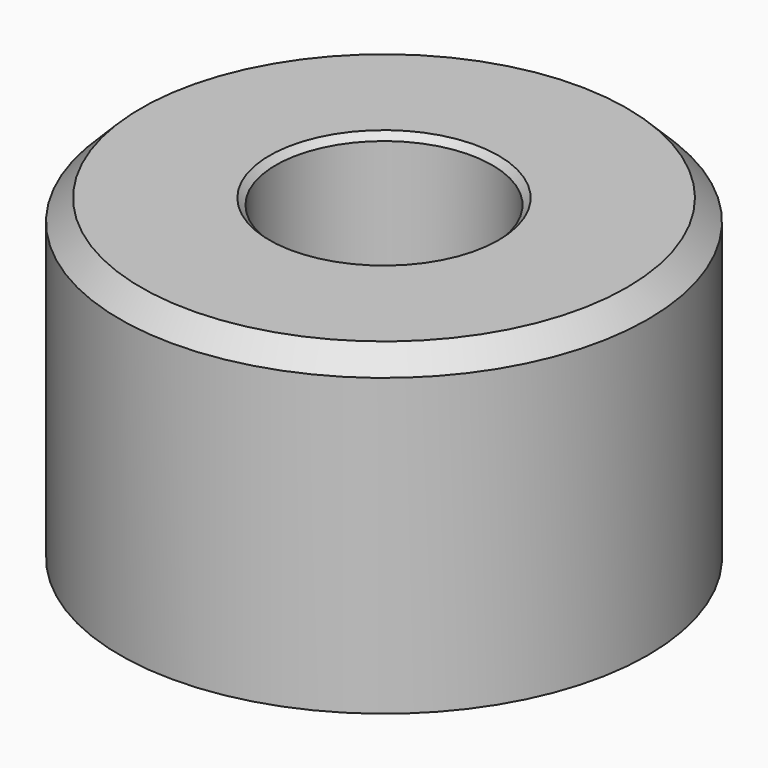
from build123d import *

# Parameters (mm, degrees)
F0_R     = 31.75
F0_R_2   = 13.0175
F1_DEPTH = 38.1
F2_SIZE  = 2.54
F3_SIZE  = 0.762


with BuildPart() as f1:
    # F0 (on Top) → F1 (new body)
    with BuildSketch(Plane.XY):
        Circle(F0_R)
        Circle(F0_R_2, mode=Mode.SUBTRACT)
    extrude(amount=F1_DEPTH)

    # F2
    f2_edges = [f1.edges().sort_by_distance(p)[0] for p in [
        (-31.75, 0, 38.1),
    ]]
    chamfer(f2_edges, length=F2_SIZE)

    # F3
    f3_edges = [f1.edges().sort_by_distance(p)[0] for p in [
        (-13.0175, 0, 38.1),
        (-13.0175, 0, 0),
    ]]
    chamfer(f3_edges, length=F3_SIZE)


solid = f1.part
